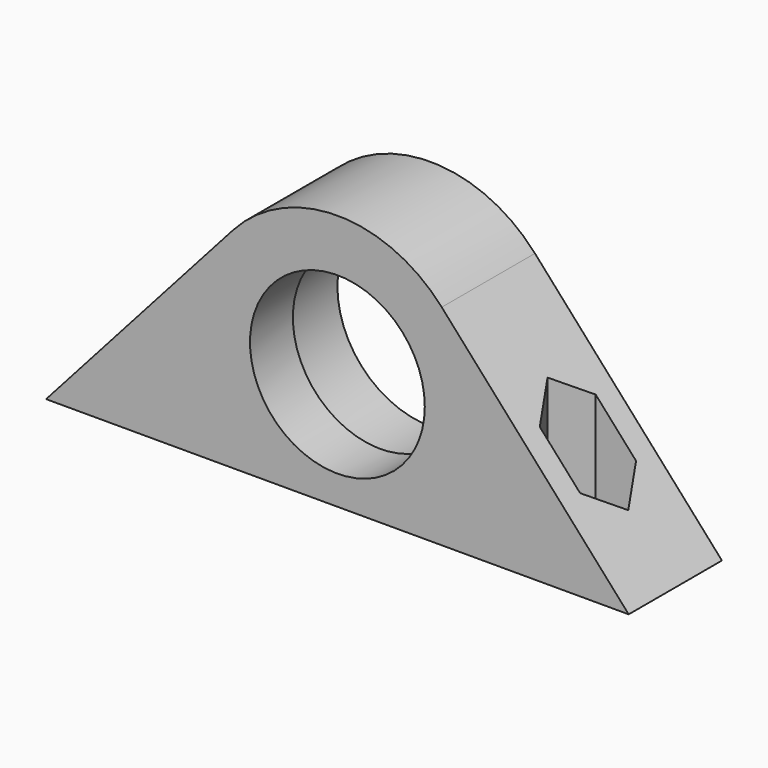
from build123d import *

# Parameters (mm, degrees)
PAD_DEPTH               = 5
HOLE_D                  = 15
HOLE_CBORE_D            = 16
HOLE_CBORE_DEPTH        = 5.4
SKETCH002_R             = 1.5
HOLE001_DEPTH           = 25
POCKET_DEPTH            = 18
BODY001_PLACEMENT_ANGLE = 180


with BuildPart() as part:
    # Sketch → Pad (new body, symmetric)
    with BuildSketch(Plane.XZ):
        with BuildLine():
            Line((-25, 0), (25, 0))
            Line((8.955135, 17.987838), (25, 0))
            ThreePointArc((8.955135, 17.987838), (0, 22), (-8.955135, 17.987838))
            Line((-8.955135, 17.987838), (-25, 0))
        make_face()
    extrude(amount=PAD_DEPTH, both=True)

    # Hole (through all)
    with Locations(Plane.XZ.offset(5)):
        with Locations((0, 10)):
            CounterBoreHole(HOLE_D / 2, HOLE_CBORE_D / 2, HOLE_CBORE_DEPTH)

    # Sketch002 (on Face6 of Hole) → Hole001 (cut)
    with BuildSketch(Plane(origin=(0, 0, 0), x_dir=(1, 0, 0), z_dir=(0, 0, -1))):
        with Locations((-17.5, 0)):
            Circle(SKETCH002_R)
        with Locations((17.5, 0)):
            Circle(SKETCH002_R)
    extrude(amount=-HOLE001_DEPTH, mode=Mode.SUBTRACT)

    # Sketch003 → Pocket (cut)
    with BuildSketch(Plane.XY.offset(20)):
        Polygon((-15.767949, 3), (-19.232051, 3), (-20.964102, 0), (-19.232051, -3), (-15.767949, -3), (-14.035898, 0), align=None)
        Polygon((15.767949, 3), (14.035898, 0), (15.767949, -3), (19.232051, -3), (20.964102, 0), (19.232051, 3), align=None)
    extrude(amount=-POCKET_DEPTH, mode=Mode.SUBTRACT)


with BuildPart() as part_1:
    # Body placement: moved
    add(part.part.moved(Location((0, 25, 0))))


with BuildPart() as part_2:
    # Clone placement: moved
    add(part_1.part.moved(Location((0, -25, 0))))


with BuildPart() as part_3:
    # Body001 placement: moved
    add(part_2.part.moved(Location((0, -25, 0))).rotate(Axis((0, -25, 0), (0, 0, 1)), BODY001_PLACEMENT_ANGLE))


solid = part_3.part
